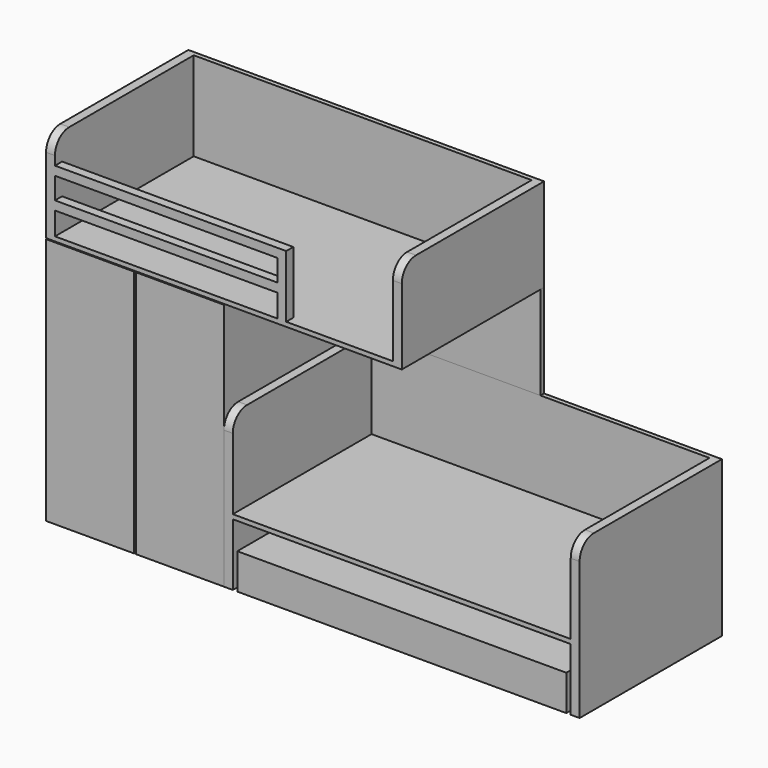
from build123d import *

# Parameters (mm, degrees)
F0_W      = 2000
F0_H      = 1000
F1_DEPTH  = 25
F2_W      = 50
F2_H      = 1000
F3_DEPTH  = 500
F4_W      = 50
F4_H      = 1000
F5_DEPTH  = 500
F6_R      = 100
F7_W      = 1300
F7_H      = 50
F8_DEPTH  = 350
F9_W      = 1250
F9_H      = 122.0108807087
F9_H_2    = 127.9891192913
F10_DEPTH = 1000.001
F11_W     = 1000
F11_H     = 975
F12_DEPTH = 1400
F13_W     = 495
F13_H     = 1395
F14_DEPTH = 25
F15_W     = 1900
F15_H     = 25
F16_DEPTH = 500
F17_W     = 1000
F17_H     = 875
F18_DEPTH = 50
F19_W     = 1000
F19_H     = 25
F20_DEPTH = 1900
F21_W     = 1000
F21_H     = 500
F21_H_2   = 25
F21_H_3   = 350
F22_DEPTH = 50
F23_R     = 100
F24_W     = 1900
F24_H     = 25
F25_DEPTH = 500
F26_W     = 1000
F26_H     = 525
F27_DEPTH = 25
F28_W     = 1850
F28_H     = 200
F29_DEPTH = 1000


with BuildPart() as f1:
    # F0 (on Top) → F1 (new body)
    with BuildSketch(Plane.XY):
        with Locations((-1000, 500)):
            Rectangle(F0_W, F0_H)
    extrude(amount=F1_DEPTH)

    # F2 (on face) → F3 (join)
    with BuildSketch(Plane.XY.offset(25)):
        with Locations((-25, 500)):
            Rectangle(F2_W, F2_H)
    extrude(amount=F3_DEPTH)

    # F4 (on face) → F5 (join)
    with BuildSketch(Plane.XY.offset(25)):
        with Locations((-1975, 500)):
            Rectangle(F4_W, F4_H)
    extrude(amount=F5_DEPTH)

    # F6
    f6_edges = [f1.edges().sort_by_distance(p)[0] for p in [
        (-1975, 0, 525),
        (-25, 0, 525),
    ]]
    fillet(f6_edges, radius=F6_R)

    # F7 (on face) → F8 (join)
    with BuildSketch(Plane.XY.offset(25)):
        with Locations((-1300, 25)):
            Rectangle(F7_W, F7_H)
    extrude(amount=F8_DEPTH)

    # F9 (on face) → F10 (cut, through all)
    with BuildSketch(Plane.XZ):
        with Locations((-1325, 263.9945596457)):
            Rectangle(F9_W, F9_H)
        with Locations((-1325, 88.9945596457)):
            Rectangle(F9_W, F9_H_2)
    extrude(amount=-F10_DEPTH, mode=Mode.SUBTRACT)

    # F11 (on face) → F12 (join)
    with BuildSketch(Plane(origin=(0, 0, 0), x_dir=(1, 0, 0), z_dir=(0, 0, -1))):
        with Locations((-1500, -512.5)):
            Rectangle(F11_W, F11_H)
    extrude(amount=F12_DEPTH)

    # F13 (on face) → F14 (join)
    with BuildSketch(Plane.XZ.offset(-25)):
        with Locations((-1752.5, -702.5)):
            Rectangle(F13_W, F13_H)
        with Locations((-1247.5, -702.5)):
            Rectangle(F13_W, F13_H)
    extrude(amount=F14_DEPTH)

    # F15 (on face) → F16 (join)
    with BuildSketch(Plane.XY.offset(25)):
        with Locations((-1000, 987.5)):
            Rectangle(F15_W, F15_H)
    extrude(amount=F16_DEPTH)


with BuildPart() as f18:
    # F17 (on face) → F18 (new body)
    with BuildSketch(Plane.YZ.offset(-1000)):
        with Locations((500, -962.5)):
            Rectangle(F17_W, F17_H)
    extrude(amount=F18_DEPTH)

    # F19 (on face) → F20 (join)
    with BuildSketch(Plane.YZ.offset(-950)):
        with Locations((500, -1037.5)):
            Rectangle(F19_W, F19_H)
    extrude(amount=F20_DEPTH)

    # F21 (on face) → F22 (join)
    with BuildSketch(Plane.YZ.offset(950)):
        with Locations((500, -775)):
            Rectangle(F21_W, F21_H)
        with Locations((500, -1037.5)):
            Rectangle(F21_W, F21_H_2)
        with Locations((500, -1225)):
            Rectangle(F21_W, F21_H_3)
    extrude(amount=F22_DEPTH)

    # F23
    f23_edges = [f18.edges().sort_by_distance(p)[0] for p in [
        (-975, 0, -525),
        (975, 0, -525),
    ]]
    fillet(f23_edges, radius=F23_R)

    # F24 (on face) → F25 (join)
    with BuildSketch(Plane.XY.offset(-1025)):
        with Locations((0, 987.5)):
            Rectangle(F24_W, F24_H)
    extrude(amount=F25_DEPTH)


with BuildPart() as f27:
    # F26 (on face) → F27 (new body)
    with BuildSketch(Plane(origin=(0, 1000, 0), x_dir=(-1, 0, 0), z_dir=(0, 1, 0))):
        with Locations((500, -262.5)):
            Rectangle(F26_W, F26_H)
    extrude(amount=-F27_DEPTH)


with BuildPart() as f29:
    # F28 (on face) → F29 (new body, through all)
    with BuildSketch(Plane.XZ):
        with Locations((0, -1300)):
            Rectangle(F28_W, F28_H)
    extrude(amount=-F29_DEPTH)


solid = Compound([f1.part, f18.part, f27.part, f29.part])
